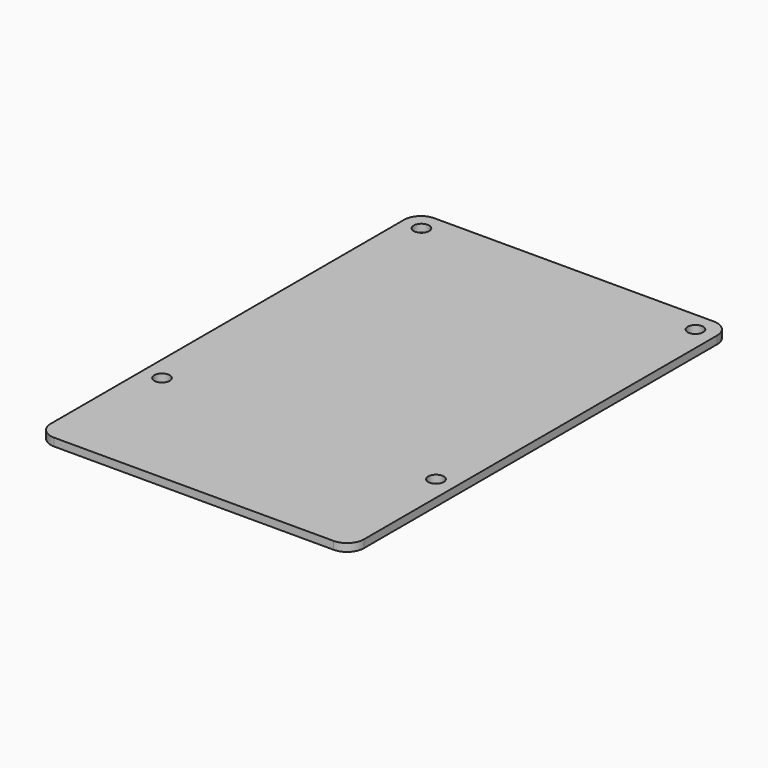
from build123d import *

# Parameters (mm, degrees)
CYLINDER011_R     = 1.375
CYLINDER011_DEPTH = 1.4
CYLINDER012_R     = 1.375
CYLINDER012_DEPTH = 1.4
CYLINDER013_R     = 1.375
CYLINDER013_DEPTH = 1.4
CYLINDER010_R     = 1.375
CYLINDER010_DEPTH = 1.4
BOX006_W          = 56
BOX006_H          = 85
BOX006_DEPTH      = 1.4
FILLET002_R       = 3


with BuildPart() as cylinder011:
    # Cylinder011 → Cylinder011 (new body)
    with BuildSketch(Plane(origin=(52.5, 81.5, 9), x_dir=(1, 0, 0), z_dir=(0, 0, 1))):
        Circle(CYLINDER011_R)
    extrude(amount=CYLINDER011_DEPTH)


with BuildPart() as cylinder012:
    # Cylinder012 → Cylinder012 (new body)
    with BuildSketch(Plane(origin=(52.5, 23.5, 9), x_dir=(1, 0, 0), z_dir=(0, 0, 1))):
        Circle(CYLINDER012_R)
    extrude(amount=CYLINDER012_DEPTH)


with BuildPart() as cylinder013:
    # Cylinder013 → Cylinder013 (new body)
    with BuildSketch(Plane(origin=(3.5, 23.5, 9), x_dir=(1, 0, 0), z_dir=(0, 0, 1))):
        Circle(CYLINDER013_R)
    extrude(amount=CYLINDER013_DEPTH)


with BuildPart() as pi_board_holes:
    # Cylinder010 → Cylinder010 (new body)
    with BuildSketch(Plane(origin=(3.5, 81.5, 9), x_dir=(1, 0, 0), z_dir=(0, 0, 1))):
        Circle(CYLINDER010_R)
    extrude(amount=CYLINDER010_DEPTH)

    # Fusion003: union Cylinder011, Cylinder012, Cylinder013
    add(cylinder011.part)
    add(cylinder012.part)
    add(cylinder013.part)


with BuildPart() as pi_base_board:
    # Box006 → Box006 (new body)
    with BuildSketch(Plane.XY.offset(9)):
        with Locations((28, 42.5)):
            Rectangle(BOX006_W, BOX006_H)
    extrude(amount=BOX006_DEPTH)

    # Fillet002
    fillet002_edges = [pi_base_board.edges().sort_by_distance(p)[0] for p in [
        (0, 0, 9.7),
        (0, 85, 9.7),
        (56, 0, 9.7),
        (56, 85, 9.7),
    ]]
    fillet(fillet002_edges, radius=FILLET002_R)

    # Cut002: cut Pi Board Holes
    add(pi_board_holes.part, mode=Mode.SUBTRACT)


with BuildPart() as pi_base_board_1:
    # Cut002 placement: moved
    add(pi_base_board.part.moved(Location((404.8, 35, 0))))


solid = pi_base_board_1.part
